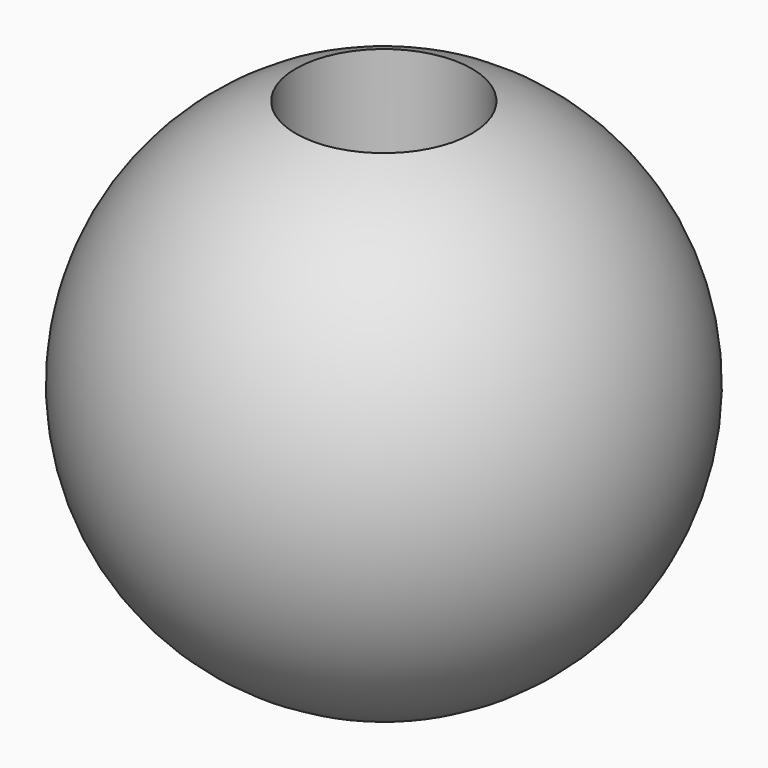
from build123d import *

# Parameters (mm, degrees)
F3_R     = 3.175
F4_DEPTH = 25.4


with BuildPart() as f2:
    # F0 (on Front) → F2 (revolve)
    with BuildSketch(Plane.XZ):
        with BuildLine():
            Line((0, -9.525), (0, 9.525))
            ThreePointArc((0, 9.525), (-9.525, 0), (0, -9.525))
        make_face()
    revolve(axis=Axis((0, 0, 0), (0, 0, 1)))

    # F3 (on Top) → F4 (cut)
    with BuildSketch(Plane.XY):
        Circle(F3_R)
    extrude(amount=F4_DEPTH, mode=Mode.SUBTRACT)


solid = f2.part
